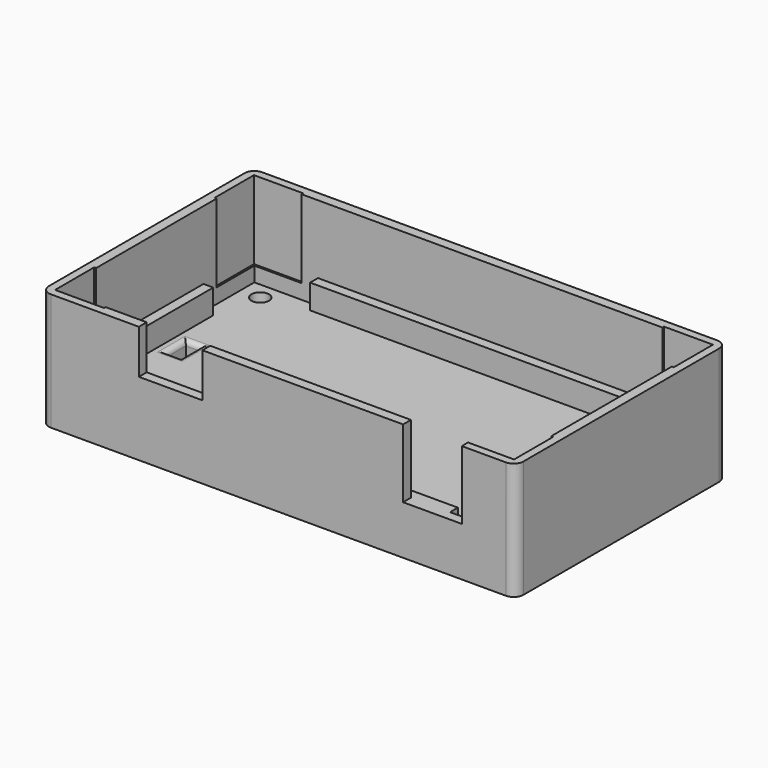
from build123d import *

# Parameters (mm, degrees)
SKETCH_W        = 97
SKETCH_H        = 54
PAD_DEPTH       = 24
SKETCH001_W     = 93
SKETCH001_H     = 50
POCKET_DEPTH    = 19
SKETCH002_R     = 1.8
POCKET001_DEPTH = 24.001
SKETCH003_R     = 3.2
POCKET002_DEPTH = 3
SKETCH004_W     = 67
SKETCH004_H     = 2
SKETCH004_W_2   = 2
SKETCH004_H_2   = 24
PAD001_DEPTH    = 5
SKETCH005_W     = 13
SKETCH005_H     = 9
POCKET003_DEPTH = 2
SKETCH006_W     = 12
SKETCH006_H     = 14
POCKET004_DEPTH = 2
FILLET_R        = 2
SKETCH007_W     = 10
SKETCH007_H     = 10
POCKET005_DEPTH = 16
SKETCH008_W     = 3
SKETCH008_H     = 5
POCKET006_DEPTH = 5.001
FILLET001_R     = 1


with BuildPart() as part:
    # Sketch → Pad (new body)
    with BuildSketch(Plane.XY):
        with Locations((48.5, 27)):
            Rectangle(SKETCH_W, SKETCH_H)
    extrude(amount=PAD_DEPTH)

    # Sketch001 → Pocket (cut)
    with BuildSketch(Plane.XY.offset(24)):
        with Locations((48.5, 27)):
            Rectangle(SKETCH001_W, SKETCH001_H)
    extrude(amount=-POCKET_DEPTH, mode=Mode.SUBTRACT)

    # Sketch002 → Pocket001 (cut, through all)
    with BuildSketch(Plane(origin=(0, 0, 0), x_dir=(1, 0, 0), z_dir=(0, 0, -1))):
        with Locations((6, -5.5)):
            Circle(SKETCH002_R)
        with Locations((91, -5.5)):
            Circle(SKETCH002_R)
        with Locations((91, -48.5)):
            Circle(SKETCH002_R)
        with Locations((6, -48.5)):
            Circle(SKETCH002_R)
    extrude(amount=-POCKET001_DEPTH, mode=Mode.SUBTRACT)

    # Sketch003 → Pocket002 (cut)
    with BuildSketch(Plane(origin=(0, 0, 0), x_dir=(1, 0, 0), z_dir=(0, 0, -1))):
        with Locations((6, -5.5)):
            Circle(SKETCH003_R)
        with Locations((6, -48.5)):
            Circle(SKETCH003_R)
        with Locations((91, -5.5)):
            Circle(SKETCH003_R)
        with Locations((91, -48.5)):
            Circle(SKETCH003_R)
    extrude(amount=-POCKET002_DEPTH, mode=Mode.SUBTRACT)

    # Sketch004 → Pad001 (new body)
    with BuildSketch(Plane.XY.offset(5)):
        with Locations((48.5, 3)):
            Rectangle(SKETCH004_W, SKETCH004_H)
        with Locations((48.5, 51)):
            Rectangle(SKETCH004_W, SKETCH004_H)
        with Locations((3, 27)):
            Rectangle(SKETCH004_W_2, SKETCH004_H_2)
        with Locations((94, 27)):
            Rectangle(SKETCH004_W_2, SKETCH004_H_2)
    extrude(amount=PAD001_DEPTH)

    # Sketch005 → Pocket003 (cut)
    with BuildSketch(Plane.XZ):
        with Locations((26.5, 19.5)):
            Rectangle(SKETCH005_W, SKETCH005_H)
    extrude(amount=-POCKET003_DEPTH, mode=Mode.SUBTRACT)

    # Sketch006 → Pocket004 (cut)
    with BuildSketch(Plane.XZ):
        with Locations((80, 17)):
            Rectangle(SKETCH006_W, SKETCH006_H)
    extrude(amount=-POCKET004_DEPTH, mode=Mode.SUBTRACT)

    # Fillet
    fillet_edges = [part.edges().sort_by_distance(p)[0] for p in [
        (97, 0, 12),
        (0, 0, 12),
        (97, 54, 12),
        (0, 54, 12),
    ]]
    fillet(fillet_edges, radius=FILLET_R)

    # Sketch007 → Pocket005 (cut)
    with BuildSketch(Plane.XY.offset(24)):
        with Locations((6.6, 6.6)):
            Rectangle(SKETCH007_W, SKETCH007_H)
        with Locations((6.6, 47.4)):
            Rectangle(SKETCH007_W, SKETCH007_H)
        with Locations((90.4, 6.6)):
            Rectangle(SKETCH007_W, SKETCH007_H)
        with Locations((90.4, 47.4)):
            Rectangle(SKETCH007_W, SKETCH007_H)
    extrude(amount=-POCKET005_DEPTH, mode=Mode.SUBTRACT)

    # Sketch008 → Pocket006 (cut, through all)
    with BuildSketch(Plane.XY.offset(5)):
        with Locations((7.5, 27)):
            Rectangle(SKETCH008_W, SKETCH008_H)
    extrude(amount=-POCKET006_DEPTH, mode=Mode.SUBTRACT)

    # Fillet001
    fillet001_edges = [part.edges().sort_by_distance(p)[0] for p in [
        (6, 27, 5),
        (9, 27, 5),
        (7.5, 29.5, 5),
        (7.5, 24.5, 5),
    ]]
    fillet(fillet001_edges, radius=FILLET001_R)


solid = part.part
